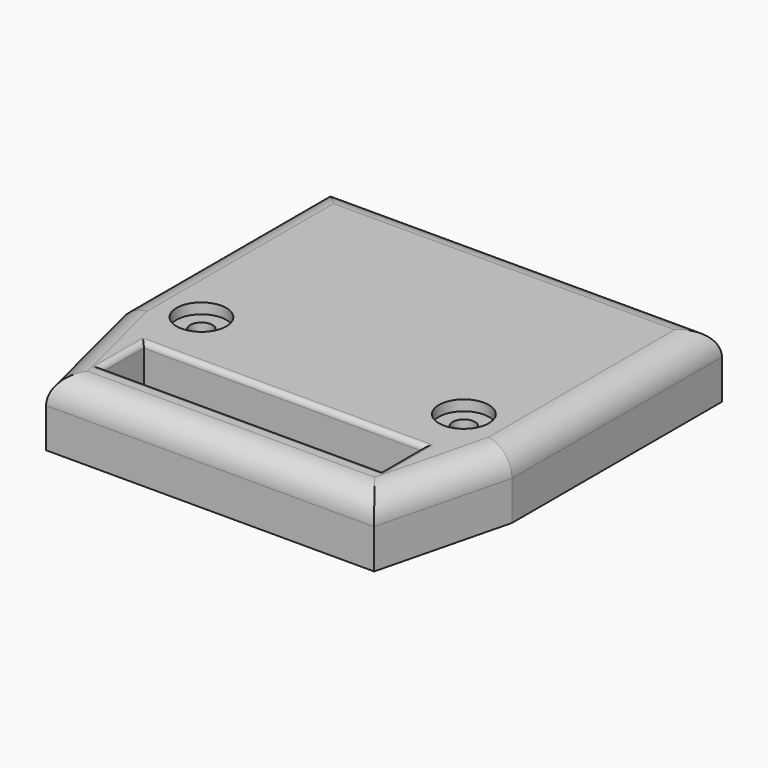
from build123d import *

# Parameters (mm, degrees)
F0_W     = 27.051
F0_H     = 5.08
F1_DEPTH = 6.35
F2_DEPTH = 1.016
F3_R     = 1.0795
F4_DEPTH = 6.351
F3_R_2   = 2.413
F5_DEPTH = 1.016
F6_R     = 2.54
F7_R     = 0.508


with BuildPart() as f1:
    # F0 (on Top) → F1 (new body)
    with BuildSketch(Plane.XY):
        with BuildLine():
            Line((5.1615120301, 0), (0, 0))
            Line((0, 0), (0, -25.4))
            Line((0, -25.4), (3.175, -38.1))
            Line((3.175, -38.1), (34.925, -38.1))
            Line((34.925, -38.1), (38.1, -25.4))
            Line((38.1, -25.4), (38.1, 0))
            Line((38.1, 0), (32.9384879699, 0))
            ThreePointArc((32.9384879699, 0), (34.184496322, -3.4072309325), (34.6075, -7.0104))
            ThreePointArc((34.6075, -7.0104), (15.4468309325, -22.144896322), (5.1615120301, 0))
        make_face()
        with Locations((19.05, -31.75)):
            Rectangle(F0_W, F0_H, mode=Mode.SUBTRACT)
        with BuildLine():
            Line((32.9384879699, 0), (5.1615120301, 0))
            ThreePointArc((5.1615120301, 0), (15.4468309325, -22.144896322), (34.6075, -7.0104))
            ThreePointArc((34.6075, -7.0104), (34.184496322, -3.4072309325), (32.9384879699, 0))
        make_face()
    extrude(amount=F1_DEPTH)

    # F0 (on Top) → F2 (cut)
    with BuildSketch(Plane.XY):
        with BuildLine():
            Line((32.9384879699, 0), (5.1615120301, 0))
            ThreePointArc((5.1615120301, 0), (15.4468309325, -22.144896322), (34.6075, -7.0104))
            ThreePointArc((34.6075, -7.0104), (34.184496322, -3.4072309325), (32.9384879699, 0))
        make_face()
    extrude(amount=F2_DEPTH, mode=Mode.SUBTRACT)

    # F3 (on face) → F4 (cut, through all)
    with BuildSketch(Plane.XY.offset(6.35)):
        with Locations((6.35, -23.277434341)):
            Circle(F3_R)
        with Locations((31.75, -23.277434341)):
            Circle(F3_R)
    extrude(amount=-F4_DEPTH, mode=Mode.SUBTRACT)

    # F3 (on face) → F5 (cut)
    with BuildSketch(Plane.XY.offset(6.35)):
        with Locations((31.75, -23.277434341)):
            Circle(F3_R_2)
        with Locations((31.75, -23.277434341)):
            Circle(F3_R, mode=Mode.SUBTRACT)
        with Locations((6.35, -23.277434341)):
            Circle(F3_R_2)
        with Locations((6.35, -23.277434341)):
            Circle(F3_R, mode=Mode.SUBTRACT)
    extrude(amount=-F5_DEPTH, mode=Mode.SUBTRACT)

    # F6
    f6_edges = [f1.edges().sort_by_distance(p)[0] for p in [
        (38.1, -12.7, 6.35),
        (36.5125, -31.75, 6.35),
        (19.05, -38.1, 6.35),
        (1.5875, -31.75, 6.35),
        (0, -12.7, 6.35),
        (19.05, 0, 6.35),
    ]]
    fillet(f6_edges, radius=F6_R)

    # F7
    f7_edges = [f1.edges().sort_by_distance(p)[0] for p in [
        (5.5245, -31.75, 6.35),
        (19.05, -34.29, 6.35),
        (19.05, -29.21, 6.35),
        (32.5755, -31.75, 6.35),
    ]]
    fillet(f7_edges, radius=F7_R)


solid = f1.part
